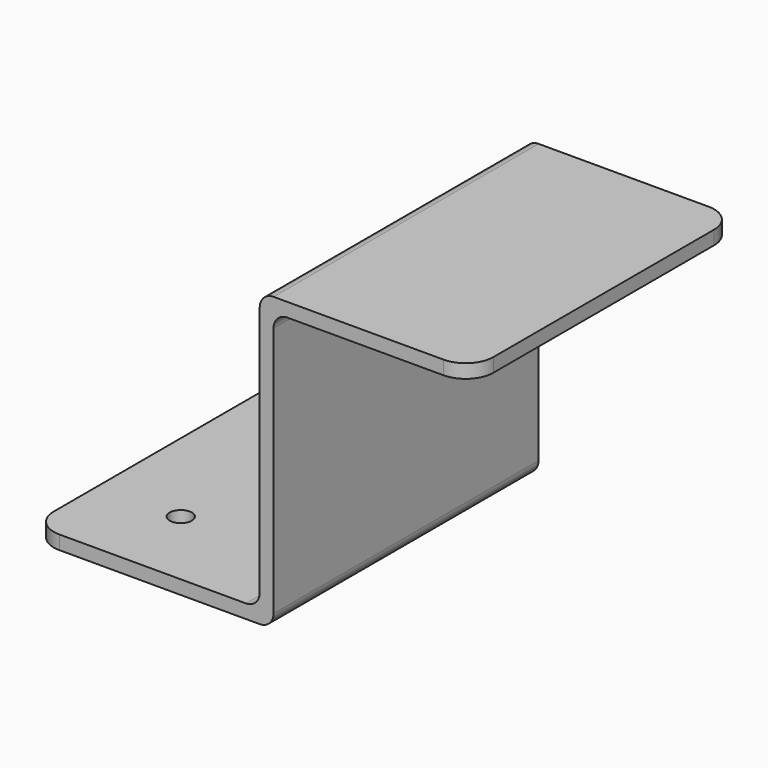
from build123d import *

# Parameters (mm, degrees)
F1_DEPTH = 38.1
F2_R     = 6.35
F3_R     = 6.35
F5_D     = 5.1054
F6_R     = 3.175
F7_R     = 3.175


with BuildPart() as f1:
    # F0 (on Front) → F1 (new body, symmetric)
    with BuildSketch(Plane.XZ):
        Polygon((-27.8152357787, 1.5875), (-27.8152357787, -1.5875), (27.8152357787, -1.5875), (27.8152357787, 1.5875), (27.8152357787, 62.5623540473), (73.2854913984, 62.5623540473), (73.2899605753, 65.7373509019), (27.8197049557, 65.7373509019), (24.6402357787, 65.7373509019), (24.6402357787, 62.5623540473), (24.6402357787, 9.6064366907), (24.6402357787, 1.5875), align=None)
    extrude(amount=F1_DEPTH, both=True)

    # F2
    f2_edges = [f1.edges().sort_by_distance(p)[0] for p in [
        (-27.815236, -38.1, 0),
    ]]
    fillet(f2_edges, radius=F2_R)

    # F3
    f3_edges = [f1.edges().sort_by_distance(p)[0] for p in [
        (73.287726, 38.1, 64.149852),
        (73.287726, -38.1, 64.149852),
        (-27.815236, 38.1, 0),
    ]]
    fillet(f3_edges, radius=F3_R)

    # F5 (through all)
    with Locations(Plane.XY.offset(1.5875)):
        with Locations((-8.7652357787, 19.05), (-8.7652357787, -19.05)):
            Hole(F5_D / 2)

    # F6
    f6_edges = [f1.edges().sort_by_distance(p)[0] for p in [
        (24.640236, 0, 65.737351),
        (27.815236, 0, -1.5875),
    ]]
    fillet(f6_edges, radius=F6_R)

    # F7
    f7_edges = [f1.edges().sort_by_distance(p)[0] for p in [
        (27.815236, 0, 62.562354),
        (24.640236, 0, 1.5875),
    ]]
    fillet(f7_edges, radius=F7_R)


solid = f1.part
